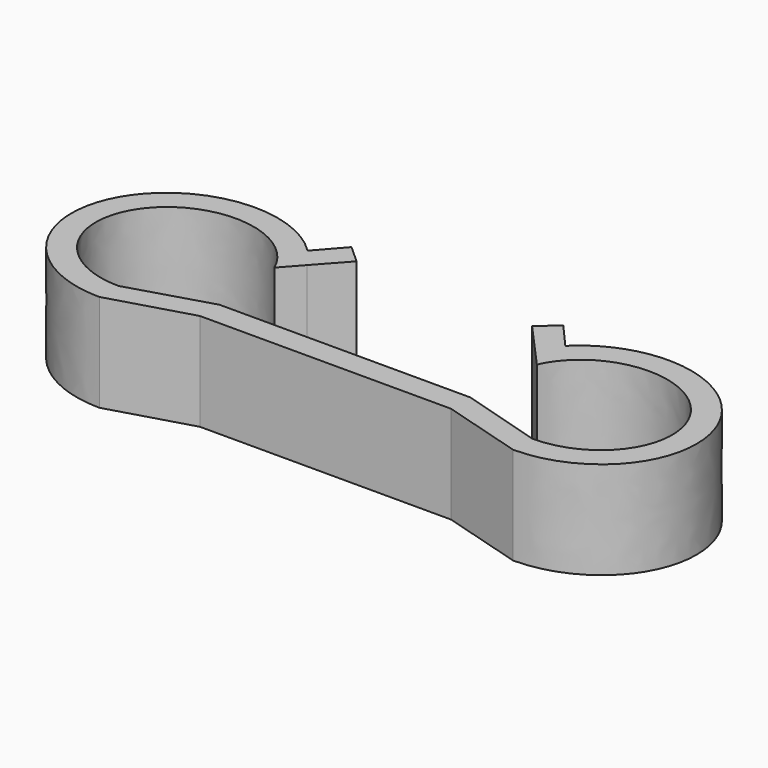
from build123d import *

# Parameters (mm, degrees)
F1_DEPTH = 12


with BuildPart() as f1:
    # F0 (on Top) → F1 (new body)
    with BuildSketch(Plane.XY):
        with BuildLine():
            Line((-15.4360572198, 0), (0, 0))
            Line((0, 0), (15.4360572198, 0))
            Line((15.4360572198, 0), (25.4360572198, -2.935281219))
            add(Edge.make_bspline(
                [(25.4360572198, -2.935281219), (45.3546034865, -2.935281219), (37.3361662119, 13.8046831595), (29.3177289374, 30.544647538), (15.8550088605, 17.0669215483)],
                knots=[4.7123889804, 4.7123889804, 4.7123889804, 6.6974985472, 6.6974985472, 8.6826081139, 8.6826081139, 8.6826081139], degree=2, weights=[1, 0.546552207, 1, 0.546552207, 1]))
            Line((15.8550088605, 17.0669215483), (13.0259464071, 20.2828743527))
            Line((13.0259464071, 20.2828743527), (10.7953902187, 18.2767290214))
            Line((10.7953902187, 18.2767290214), (16.1451111023, 12.3285791857))
            add(Edge.make_bspline(
                [(25.4360572198, 0), (44.3016893473, 0), (33.7120530262, 14.0518703135), (23.1224167051, 28.103740627), (16.1451111023, 12.3285791857)],
                knots=[4.7123889804, 4.7123889804, 4.7123889804, 6.8791639212, 6.8791639212, 9.0459388621, 9.0459388621, 9.0459388621], degree=2, weights=[1, 0.4683380597, 1, 0.4683380597, 1]))
            Line((25.4360572198, 0), (15.4360572198, 3))
            Line((15.4360572198, 3), (0, 3))
            Line((0, 3), (-15.4360572198, 3))
            Line((-15.4360572198, 3), (-25.4360572198, 0))
            add(Edge.make_bspline(
                [(-16.1451111023, 12.3285791857), (-23.1224167051, 28.103740627), (-33.7120530262, 14.0518703135), (-44.3016893473, 0), (-25.4360572198, 0)],
                knots=[3.5204317523, 3.5204317523, 3.5204317523, 5.6872066931, 5.6872066931, 7.853981634, 7.853981634, 7.853981634], degree=2, weights=[1, 0.4683380597, 1, 0.4683380597, 1]))
            Line((-16.1451111023, 12.3285791857), (-14.0135432559, 14.6985878668))
            Line((-14.0135432559, 14.6985878668), (-10.7953902187, 18.2767290214))
            Line((-10.7953902187, 18.2767290214), (-13.0259464071, 20.2828743527))
            Line((-13.0259464071, 20.2828743527), (-15.8550088605, 17.0669215483))
            add(Edge.make_bspline(
                [(-15.8550088605, 17.0669215483), (-29.3177289374, 30.544647538), (-37.3361662119, 13.8046831595), (-45.3546034865, -2.935281219), (-25.4360572198, -2.935281219)],
                knots=[3.8837625004, 3.8837625004, 3.8837625004, 5.8688720672, 5.8688720672, 7.853981634, 7.853981634, 7.853981634], degree=2, weights=[1, 0.546552207, 1, 0.546552207, 1]))
            Line((-25.4360572198, -2.935281219), (-15.4360572198, 0))
        make_face()
    extrude(amount=F1_DEPTH)


solid = f1.part
